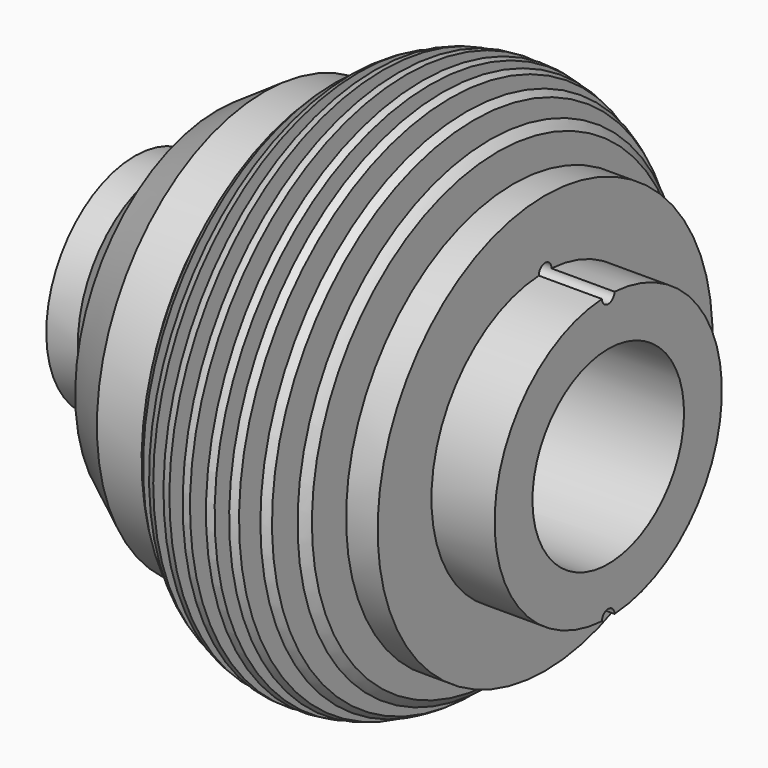
from build123d import *

# Parameters (mm, degrees)
SKETCH001_R     = 7.5
POCKET_DEPTH    = 85.691761
SKETCH002_R     = 2.5
POCKET001_DEPTH = 123.858565


with BuildPart() as part:
    # Sketch → Revolution (revolve)
    with BuildSketch(Plane.XZ):
        with BuildLine():
            Line((0, 15), (50, 15))
            Line((50, 15), (50, 30))
            Line((50, 30), (150, 30))
            Line((150, 30), (150, 45))
            Line((150, 45), (130, 45))
            Line((130, 45), (130, 66.3))
            Line((130, 66.3), (120, 66.3))
            Line((120, 66.3), (120, 49.744562))
            Line((120, 49.744562), (115, 49.744562))
            Line((115, 49.744562), (115, 73.593188))
            ThreePointArc((115, 73.593188), (113.781801, 74.903585), (112.5, 76.151837))
            Line((112.5, 49.744562), (112.5, 76.151837))
            Line((112.5, 49.744562), (107.5, 49.744562))
            Line((107.5, 49.744562), (107.5, 80.026878))
            ThreePointArc((107.5, 80.026878), (106.264788, 80.786239), (105, 81.495245))
            Line((105, 49.744562), (105, 81.495245))
            Line((105, 49.744562), (100, 49.744562))
            Line((100, 49.744562), (100, 83.697181))
            ThreePointArc((100, 83.697181), (98.757097, 84.110013), (97.5, 84.477364))
            Line((97.5, 49.744562), (97.5, 84.477364))
            Line((93.565112, 49.744562), (97.5, 49.744562))
            Line((93.565112, 49.744562), (93.565112, 85.316895))
            ThreePointArc((93.565112, 85.316895), (92.317733, 85.488614), (91.065112, 85.616607))
            Line((91.065112, 49.744562), (91.065112, 85.616607))
            Line((86.065112, 49.744562), (91.065112, 49.744562))
            Line((86.065112, 49.744562), (86.065112, 85.690761))
            ThreePointArc((86.065112, 85.690761), (84.813155, 85.600321), (83.565112, 85.466292))
            Line((83.565112, 49.744562), (83.565112, 85.466292))
            Line((78.565112, 49.744562), (83.565112, 49.744562))
            Line((78.565112, 49.744562), (78.565112, 84.477364))
            ThreePointArc((78.565112, 84.477364), (77.308015, 84.110013), (76.065112, 83.697181))
            Line((76.065112, 49.744562), (76.065112, 83.697181))
            Line((71.065112, 49.744562), (76.065112, 49.744562))
            Line((71.065112, 49.744562), (71.065112, 81.495245))
            ThreePointArc((71.065112, 81.495245), (69.800323, 80.786239), (68.565112, 80.026878))
            Line((68.565112, 49.744562), (68.565112, 80.026878))
            Line((63.565112, 49.744562), (68.565112, 49.744562))
            Line((63.565112, 49.744562), (63.565112, 76.151837))
            ThreePointArc((63.565112, 76.151837), (62.283311, 74.903585), (61.065112, 73.593188))
            Line((61.065112, 49.744562), (61.065112, 73.593188))
            Line((56.065112, 49.744562), (61.065112, 49.744562))
            Line((56.065112, 66.3), (56.065112, 49.744562))
            Line((41.065112, 66.3), (56.065112, 66.3))
            Line((26.142435, 56.234528), (41.065112, 66.3))
            Line((26.142435, 34.934528), (26.142435, 56.234528))
            ThreePointArc((15, 25), (22.797345, 27.470469), (26.142435, 34.934528))
            Line((15, 25), (10, 25))
            Line((10, 25), (10, 35))
            Line((10, 35), (0, 35))
            Line((0, 35), (0, 15))
        make_face()
    revolve(axis=Axis((0, 0, 0), (1, 0, 0)))

    # Sketch001 (on DatumPlane) → Pocket (cut, through all)
    with BuildSketch(Plane(origin=(48.565112, 0, 0), x_dir=(0, 1, 0), z_dir=(0, 0, -1))):
        with Locations((0, 40)):
            Circle(SKETCH001_R)
    extrude(amount=POCKET_DEPTH, mode=Mode.SUBTRACT)

    # Sketch002 (on Face4 of Pocket) → Pocket001 (cut, through all)
    with BuildSketch(Plane(origin=(26.142435, 0, 0), x_dir=(0, 0, -1), z_dir=(-1, 0, 0))):
        with Locations((-45, 0)):
            Circle(SKETCH002_R)
        with Locations((45, 0)):
            Circle(SKETCH002_R)
    extrude(amount=-POCKET001_DEPTH, mode=Mode.SUBTRACT)


solid = part.part
